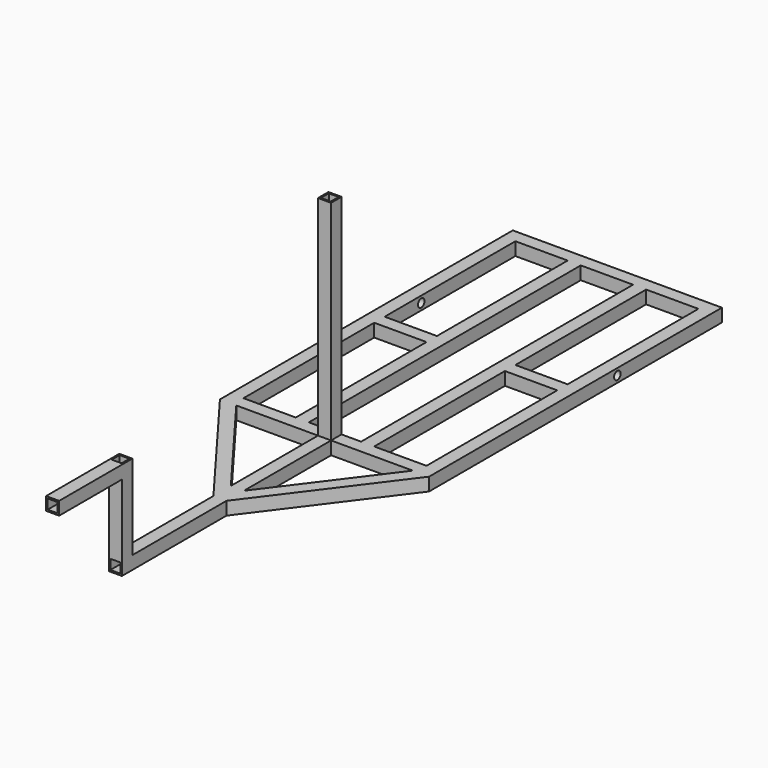
from build123d import *

# Parameters (mm, degrees)
F0_W      = 406.4
F0_H      = 711.2
F0_W_2    = 101.6
F0_H_2    = 317.5
F0_H_3    = 660.4
F1_DEPTH  = 25.4
F2_W      = 25.4
F2_H      = 25.4
F2_W_2    = 19.05
F2_H_2    = 19.05
F3_DEPTH  = 406.4
F4_R      = 7.9375
F5_DEPTH  = 25.4
F6_R      = 7.9375
F7_DEPTH  = 25.4
F8_W      = 25.4
F8_H      = 25.4
F8_W_2    = 19.05
F8_H_2    = 19.05
F9_DEPTH  = 508
F10_W     = 25.4
F10_H     = 25.4
F10_W_2   = 19.05
F10_H_2   = 19.05
F11_DEPTH = 165.1
F12_W     = 25.4
F12_H     = 25.4
F12_W_2   = 19.05
F12_H_2   = 19.05
F13_DEPTH = 152.4
F15_DEPTH = 25.4


with BuildPart() as f1:
    # F0 (on Top) → F1 (new body)
    with BuildSketch(Plane.XY):
        Rectangle(F0_W, F0_H)
        with Locations((-127, -171.45)):
            Rectangle(F0_W_2, F0_H_2, mode=Mode.SUBTRACT)
        with Locations((127, -171.45)):
            Rectangle(F0_W_2, F0_H_2, mode=Mode.SUBTRACT)
        with Locations((-127, 171.45)):
            Rectangle(F0_W_2, F0_H_2, mode=Mode.SUBTRACT)
        Rectangle(F0_W_2, F0_H_3, mode=Mode.SUBTRACT)
        with Locations((127, 171.45)):
            Rectangle(F0_W_2, F0_H_2, mode=Mode.SUBTRACT)
    extrude(amount=F1_DEPTH)

    # F2 (on face) → F3 (join)
    with BuildSketch(Plane.XY.offset(25.4)):
        with Locations((0, -342.9)):
            Rectangle(F2_W, F2_H)
        with Locations((0, -342.9)):
            Rectangle(F2_W_2, F2_H_2, mode=Mode.SUBTRACT)
    extrude(amount=F3_DEPTH)

    # F4 (on face) → F5 (cut)
    with BuildSketch(Plane.YZ.offset(203.2)):
        with Locations((101.6, 12.7)):
            Circle(F4_R)
    extrude(amount=-F5_DEPTH, mode=Mode.SUBTRACT)

    # F6 (on face) → F7 (cut)
    with BuildSketch(Plane(origin=(-203.2, 0, 0), x_dir=(0, -1, 0), z_dir=(-1, 0, 0))):
        with Locations((-101.6, 12.7)):
            Circle(F6_R)
    extrude(amount=-F7_DEPTH, mode=Mode.SUBTRACT)

    # F8 (on face) → F9 (join)
    with BuildSketch(Plane.XZ.offset(355.6)):
        with Locations((0, 12.7)):
            Rectangle(F8_W, F8_H)
        with Locations((0, 12.7)):
            Rectangle(F8_W_2, F8_H_2, mode=Mode.SUBTRACT)
    extrude(amount=F9_DEPTH)

    # F10 (on face) → F11 (join)
    with BuildSketch(Plane.XY.offset(25.4)):
        with Locations((0, -850.9)):
            Rectangle(F10_W, F10_H)
        with Locations((0, -850.9)):
            Rectangle(F10_W_2, F10_H_2, mode=Mode.SUBTRACT)
    extrude(amount=F11_DEPTH)

    # F12 (on face) → F13 (join)
    with BuildSketch(Plane.XZ.offset(863.6)):
        with Locations((0, 177.8)):
            Rectangle(F12_W, F12_H)
        with Locations((0, 177.8)):
            Rectangle(F12_W_2, F12_H_2, mode=Mode.SUBTRACT)
    extrude(amount=F13_DEPTH)

    # F14 (on Top) → F15 (join)
    with BuildSketch(Plane.XY):
        Polygon((-171.45, -355.6), (-203.2, -355.6), (-12.7, -609.6), (-12.7, -567.266667), align=None)
        Polygon((12.7, -609.6), (203.2, -355.6), (171.45, -355.6), (12.7, -567.266667), align=None)
    extrude(amount=F15_DEPTH)


solid = f1.part
